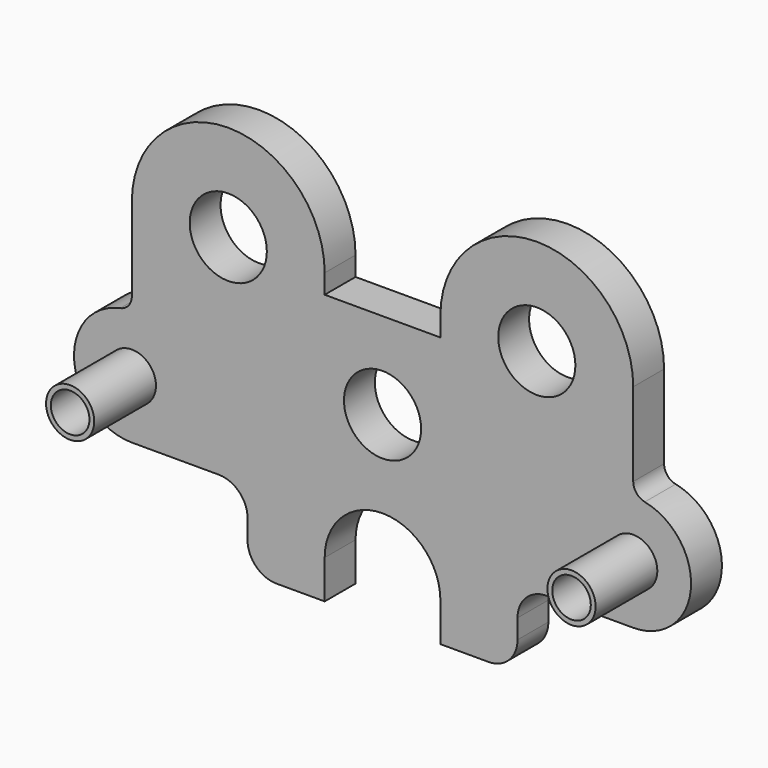
from build123d import *

# Parameters (mm, degrees)
F0_R     = 7.9375
F0_R_2   = 12.7
F0_R_3   = 6.35
F1_DEPTH = 12.7
F2_DEPTH = 25.4


with BuildPart() as f1:
    # F0 (on Front) → F1 (new body)
    with BuildSketch(Plane.XZ):
        with BuildLine():
            Line((19.05, 34.925), (19.05, 28.575))
            Line((19.05, 28.575), (-19.05, 28.575))
            Line((-19.05, 28.575), (-19.05, 34.925))
            ThreePointArc((-19.05, 34.925), (-50.8, 66.675), (-82.55, 34.925))
            Line((-82.55, 34.925), (-82.55, 7.45639))
            ThreePointArc((-82.55, 7.45639), (-83.623483, 4.44432), (-86.36, 2.790112))
            ThreePointArc((-86.36, 2.790112), (-101.503534, -17.789696), (-82.55, -34.925))
            Line((-82.55, -34.925), (-53.975, -34.925))
            ThreePointArc((-53.975, -34.925), (-47.239808, -37.714808), (-44.45, -44.45))
            Line((-44.45, -44.45), (-44.45, -50.8))
            ThreePointArc((-44.45, -50.8), (-41.660192, -57.535192), (-34.925, -60.325))
            Line((-34.925, -60.325), (-19.05, -60.325))
            Line((-19.05, -60.325), (-19.05, -47.625))
            ThreePointArc((-19.05, -47.625), (0, -28.575), (19.05, -47.625))
            Line((19.05, -47.625), (19.05, -60.325))
            Line((19.05, -60.325), (34.925, -60.325))
            ThreePointArc((34.925, -60.325), (41.660192, -57.535192), (44.45, -50.8))
            Line((44.45, -50.8), (44.45, -44.45))
            ThreePointArc((44.45, -44.45), (47.239808, -37.714808), (53.975, -34.925))
            Line((53.975, -34.925), (82.55, -34.925))
            ThreePointArc((82.55, -34.925), (101.503534, -17.789696), (86.36, 2.790112))
            ThreePointArc((86.36, 2.790112), (83.623483, 4.44432), (82.55, 7.45639))
            Line((82.55, 7.45639), (82.55, 34.925))
            ThreePointArc((82.55, 34.925), (50.8, 66.675), (19.05, 34.925))
        make_face()
        with Locations((-82.55, -15.875)):
            Circle(F0_R, mode=Mode.SUBTRACT)
        Circle(F0_R_2, mode=Mode.SUBTRACT)
        with Locations((82.55, -15.875)):
            Circle(F0_R, mode=Mode.SUBTRACT)
        with Locations((-50.8, 34.925)):
            Circle(F0_R_2, mode=Mode.SUBTRACT)
        with Locations((50.8, 34.925)):
            Circle(F0_R_2, mode=Mode.SUBTRACT)
        with Locations((82.55, -15.875)):
            Circle(F0_R)
        with Locations((82.55, -15.875)):
            Circle(F0_R_3, mode=Mode.SUBTRACT)
        with Locations((-82.55, -15.875)):
            Circle(F0_R)
        with Locations((-82.55, -15.875)):
            Circle(F0_R_3, mode=Mode.SUBTRACT)
    extrude(amount=-F1_DEPTH)

    # F0 (on Front) → F2 (join)
    with BuildSketch(Plane.XZ):
        with Locations((-82.55, -15.875)):
            Circle(F0_R)
        with Locations((-82.55, -15.875)):
            Circle(F0_R_3, mode=Mode.SUBTRACT)
        with Locations((82.55, -15.875)):
            Circle(F0_R)
        with Locations((82.55, -15.875)):
            Circle(F0_R_3, mode=Mode.SUBTRACT)
    extrude(amount=F2_DEPTH)


solid = f1.part
